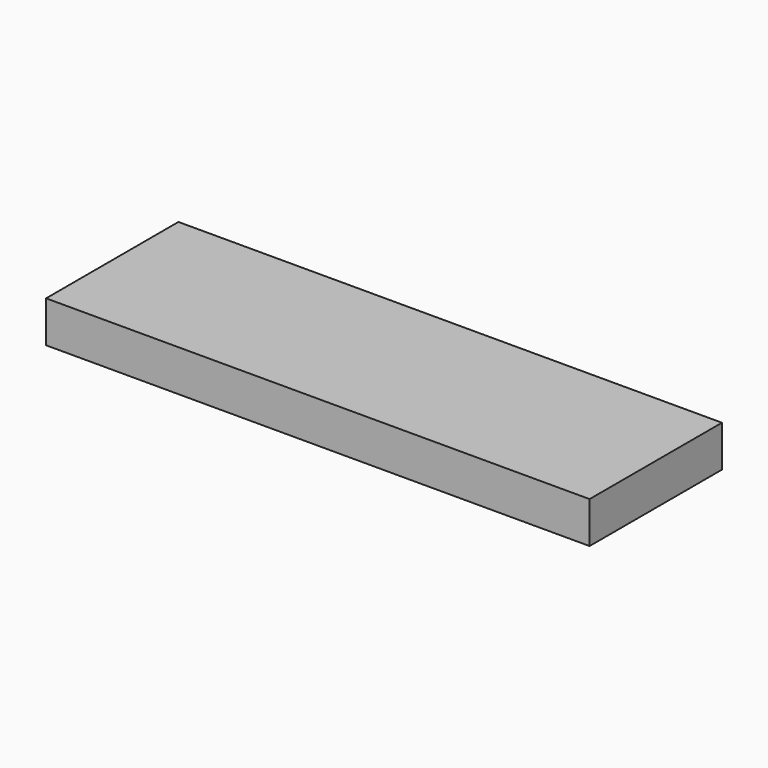
from build123d import *

# Parameters (mm, degrees)
SKETCH_W  = 140
SKETCH_H  = 35
PAD_DEPTH = 460


with BuildPart() as part:
    # Sketch → Pad (new body)
    with BuildSketch(Plane.YZ):
        with Locations((-70, 17.5)):
            Rectangle(SKETCH_W, SKETCH_H)
    extrude(amount=PAD_DEPTH)


solid = part.part
